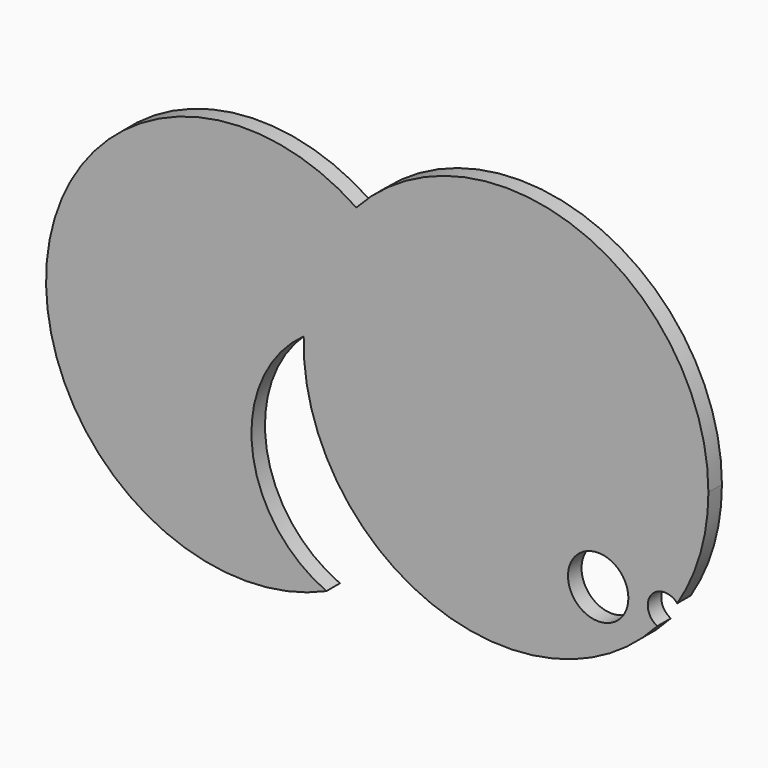
from build123d import *

# Parameters (mm, degrees)
F2_DEPTH = 25.4
F0_R     = 45.389454
F3_DEPTH = 25.4


with BuildPart() as f2:
    # F1 (on face) → F2 (new body)
    with BuildSketch(Plane.XZ):
        with BuildLine():
            ThreePointArc((-408.650134, -138.321041), (-500.899934, 120.173805), (-237.660617, 197.856963))
            ThreePointArc((-237.660617, 197.856963), (-797.702842, 271.136049), (-408.650134, -138.321041))
        make_face()
    extrude(amount=F2_DEPTH)

    # F0 (on Front) → F3 (join)
    with BuildSketch(Plane.XZ):
        with BuildLine():
            ThreePointArc((88.884516, -22.918433), (79.660927, 15.310849), (118.946802, 17.092003))
            ThreePointArc((118.946802, 17.092003), (153.828866, 94.879416), (165.768481, 179.289639))
            ThreePointArc((165.768481, 179.289639), (-423.061654, 287.455309), (88.884516, -22.918433))
        make_face()
        Circle(F0_R, mode=Mode.SUBTRACT)
    extrude(amount=F3_DEPTH)


solid = f2.part
